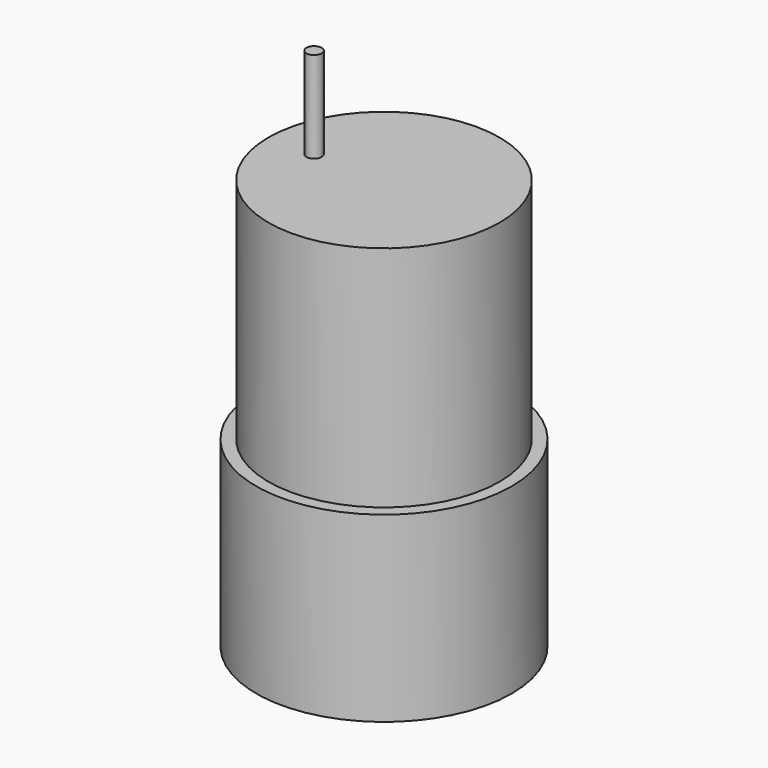
from build123d import *

# Parameters (mm, degrees)
SKETCH_R     = 16.8
PAD_DEPTH    = 24
SKETCH001_R  = 15.19
PAD001_DEPTH = 30
SKETCH002_R  = 1
PAD002_DEPTH = 12


with BuildPart() as part:
    # Sketch → Pad (new body)
    with BuildSketch(Plane.XY):
        Circle(SKETCH_R)
    extrude(amount=PAD_DEPTH)

    # Sketch001 → Pad001 (new body)
    with BuildSketch(Plane.XY.offset(24)):
        Circle(SKETCH001_R)
    extrude(amount=PAD001_DEPTH)

    # Sketch002 → Pad002 (new body)
    with BuildSketch(Plane.XY.offset(54)):
        with Locations((-9.2, 0)):
            Circle(SKETCH002_R)
    extrude(amount=PAD002_DEPTH)


solid = part.part
